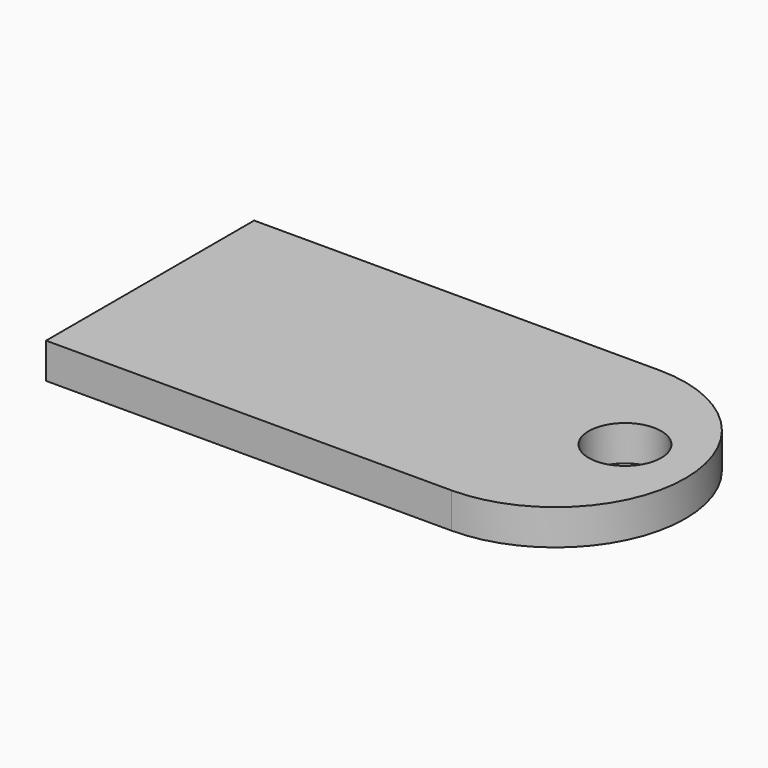
from build123d import *

# Parameters (mm, degrees)
F1_DEPTH = 3.81
F2_R     = 3.897648
F3_DEPTH = 25.4


with BuildPart() as f1:
    # F0 (on Top) → F1 (new body)
    with BuildSketch(Plane.XY):
        with BuildLine():
            Line((-43.509971, 0), (0, 0))
            ThreePointArc((0, 0), (13.959449, 13.959449), (0, 27.918898))
            Line((0, 27.918898), (-43.509971, 27.918898))
            Line((-43.509971, 27.918898), (-43.509971, 0))
        make_face()
    extrude(amount=F1_DEPTH)

    # F2 (on face) → F3 (cut)
    with BuildSketch(Plane.XY.offset(3.81)):
        with Locations((6.163907, 15.591073)):
            Circle(F2_R)
    extrude(amount=-F3_DEPTH, mode=Mode.SUBTRACT)


solid = f1.part
